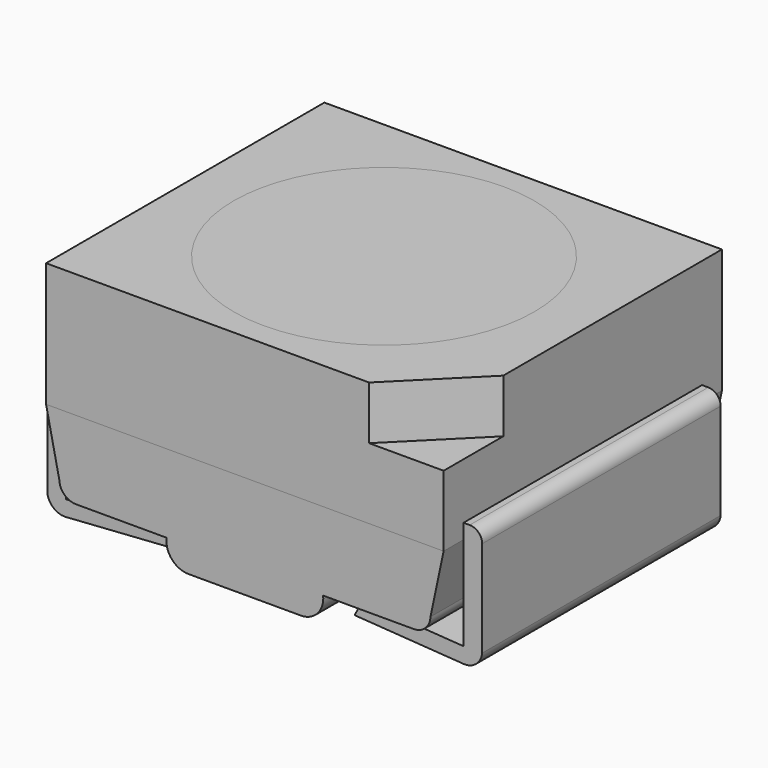
from build123d import *

# Parameters (mm, degrees)
PAD_DEPTH    = 2.8
PAD001_DEPTH = 0.43
BOX_W        = 3.2
BOX_H        = 2.8
BOX_DEPTH    = 1
PAD002_DEPTH = 2.4
FILLET_R     = 0.1
PAD003_DEPTH = 2.4
FILLET001_R  = 0.1
BOX001_W     = 0.3621
BOX001_H     = 0.3347
BOX001_DEPTH = 0.05
PAD004_DEPTH = 0.05


with BuildPart() as pad:
    # Sketch → Pad (new body)
    with BuildSketch(Plane.XZ.offset(-2.8)):
        with BuildLine():
            Line((0, 0.88), (3.2, 0.88))
            Line((3.2, 0.88), (3.093722, 0.38))
            ThreePointArc((2.96, 0.25), (3.053249, 0.287856), (3.093722, 0.38))
            Line((2.23, 0.25), (2.96, 0.25))
            ThreePointArc((2.0517, 0.05), (2.185669, 0.110044), (2.23, 0.25))
            Line((1.14655, 0.05), (2.0517, 0.05))
            ThreePointArc((0.97, 0.25), (1.013162, 0.110176), (1.14655, 0.05))
            Line((0.24, 0.25), (0.97, 0.25))
            ThreePointArc((0.106278, 0.38), (0.146751, 0.287856), (0.24, 0.25))
            Line((0, 0.88), (0.106278, 0.38))
        make_face()
    extrude(amount=PAD_DEPTH)


with BuildPart() as pad001:
    # Sketch001 → Pad001 (new body)
    with BuildSketch(Plane(origin=(2.6, 0, 1.45), x_dir=(1, 0, 0), z_dir=(0, 0, 1))):
        Polygon((0, 0), (0.6, 0), (0.6, 0.6), align=None)
    extrude(amount=PAD001_DEPTH)


with BuildPart() as cone:
    # Cone → Cone (revolve)
    with BuildSketch(Plane(origin=(1.6, 1.4, 0.88), x_dir=(1, 0, 0), z_dir=(0, -1, 0))):
        Polygon((0, 0), (0.875, 0), (1.21, 1), (0, 1), align=None)
    revolve(axis=Axis((1.6, 1.4, 0.88), (0, 0, 1)))


with BuildPart() as cut001:
    # Box → Box (new body)
    with BuildSketch(Plane.XY.offset(0.88)):
        with Locations((1.6, 1.4)):
            Rectangle(BOX_W, BOX_H)
    extrude(amount=BOX_DEPTH)

    # Cut: cut Cone
    add(cone.part, mode=Mode.SUBTRACT)

    # Cut001: cut Pad001
    add(pad001.part, mode=Mode.SUBTRACT)


with BuildPart() as fillet_body:
    # Sketch002 → Pad002 (new body)
    with BuildSketch(Plane.XZ.offset(-2.6)):
        with BuildLine():
            Line((-0.15, 0.1253), (-0.15, 1))
            Line((-0.15, 1), (0, 1))
            Line((0, 1), (0, 0.1253))
            Line((0, 0.1253), (0.8155, 0.181))
            Line((0.8759, 0.06), (0.8155, 0.181))
            Line((0, 0), (0.8759, 0.06))
            ThreePointArc((-0.15, 0.1253), (-0.100536, 0.032081), (0, 0))
        make_face()
    extrude(amount=PAD002_DEPTH)

    # Fillet
    fillet_edges = [fillet_body.edges().sort_by_distance(p)[0] for p in [
        (-0.15, 1.4, 1),
    ]]
    fillet(fillet_edges, radius=FILLET_R)


with BuildPart() as fillet001:
    # Sketch003 → Pad003 (new body)
    with BuildSketch(Plane(origin=(3.2, 2.6, 0), x_dir=(1, 0, 0), z_dir=(0, -1, 0))):
        with BuildLine():
            Line((0.15, 0.1253), (0.15, 1))
            Line((0.15, 1), (0, 1))
            Line((0, 1), (0, 0.1253))
            Line((0, 0.1253), (-0.8155, 0.181))
            Line((-0.8759, 0.06), (-0.8155, 0.181))
            Line((0, 0), (-0.8759, 0.06))
            ThreePointArc((0, 0), (0.100536, 0.032081), (0.15, 0.1253))
        make_face()
    extrude(amount=PAD003_DEPTH)

    # Fillet001
    fillet001_edges = [fillet001.edges().sort_by_distance(p)[0] for p in [
        (3.35, 1.4, 1),
    ]]
    fillet(fillet001_edges, radius=FILLET001_R)


with BuildPart() as cone001:
    # Cone001 → Cone001 (revolve)
    with BuildSketch(Plane(origin=(1.6, 1.4, 1.78), x_dir=(1, 0, 0), z_dir=(0, -1, 0))):
        Polygon((0, 0), (1.1765, 0), (1.21, 0.1), (0, 0.1), align=None)
    revolve(axis=Axis((1.6, 1.4, 1.78), (0, 0, 1)))


with BuildPart() as cube001:
    # Box001 → Box001 (new body)
    with BuildSketch(Plane(origin=(1.4664, 1.245, 0.88), x_dir=(1, 0, 0), z_dir=(0, 0, 1))):
        with Locations((0.18105, 0.16735)):
            Rectangle(BOX001_W, BOX001_H)
    extrude(amount=BOX001_DEPTH)


with BuildPart() as pad004:
    # Sketch004 → Pad004 (new body)
    with BuildSketch(Plane.XY.offset(0.88)):
        with BuildLine():
            Line((1.207, 0.974), (1.841, 0.974))
            ThreePointArc((1.92678, 0.913), (1.890696, 0.95307), (1.841, 0.974))
            Line((1.92678, 0.913), (2.172, 0.6695))
            Line((2.172, 0.6695), (2.4138, 0.8522))
            Line((2.1422, 1.0956), (2.4138, 0.8522))
            ThreePointArc((2.1422, 1.0956), (2.100228, 1.12008), (2.052, 1.126))
            Line((1.388, 1.126), (2.052, 1.126))
            ThreePointArc((1.327, 1.187), (1.344866, 1.143866), (1.388, 1.126))
            Line((1.327, 1.643), (1.327, 1.187))
            ThreePointArc((1.388, 1.704), (1.344866, 1.686134), (1.327, 1.643))
            Line((1.388, 1.704), (2.052, 1.704))
            ThreePointArc((2.052, 1.704), (2.100307, 1.710008), (2.1422, 1.7348))
            Line((2.1422, 1.7348), (2.4138, 1.9478))
            Line((2.172, 2.1304), (2.4138, 1.9478))
            Line((1.92678, 1.917), (2.172, 2.1304))
            ThreePointArc((1.841, 1.856), (1.886736, 1.882498), (1.92678, 1.917))
            Line((1.207, 1.856), (1.841, 1.856))
            ThreePointArc((1.207, 1.856), (1.164574, 1.838426), (1.147, 1.796))
            Line((1.147, 1.035), (1.147, 1.796))
            ThreePointArc((1.147, 1.035), (1.164514, 0.992219), (1.207, 0.974))
        make_face()
    extrude(amount=PAD004_DEPTH)


solid = Compound([pad.part, cut001.part, fillet_body.part, fillet001.part, cone001.part, cube001.part, pad004.part])
